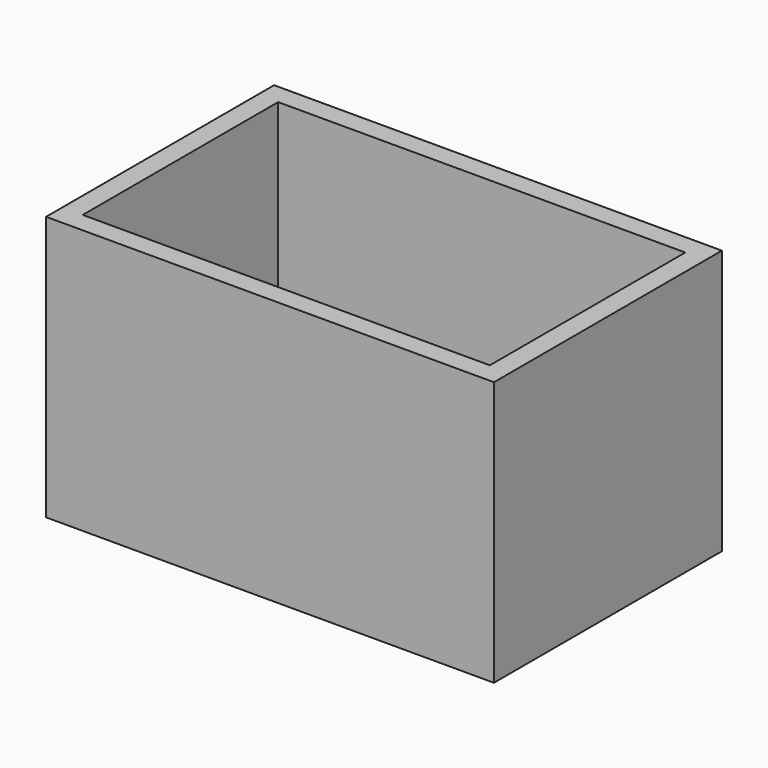
from build123d import *

# Parameters (mm, degrees)
F0_W     = 69.85
F0_H     = 44.45
F1_DEPTH = 3.175
F3_DEPTH = 3.175
F4_W     = 69.85
F4_H     = 44.45
F4_W_2   = 63.5
F4_H_2   = 38.1
F5_DEPTH = 38.1


with BuildPart() as f1:
    # F0 (on Top) → F1 (new body)
    with BuildSketch(Plane.XY):
        with Locations((34.925, -22.225)):
            Rectangle(F0_W, F0_H)
    extrude(amount=F1_DEPTH)

    # F2 (on face) → F3 (cut, through all)
    with BuildSketch(Plane.XY.offset(3.175)):
        with BuildLine():
            ThreePointArc((16.383, -22.225), (19.685, -25.527), (22.987, -22.225))
            Line((22.987, -22.225), (16.383, -22.225))
        make_face()
        with BuildLine():
            Line((16.383, -22.225), (22.987, -22.225))
            ThreePointArc((22.987, -22.225), (19.685, -18.923), (16.383, -22.225))
        make_face()
        with BuildLine():
            ThreePointArc((53.467, -22.225), (50.165, -18.923), (46.863, -22.225))
            Line((46.863, -22.225), (53.467, -22.225))
        make_face()
        with BuildLine():
            Line((53.467, -22.225), (46.863, -22.225))
            ThreePointArc((46.863, -22.225), (50.165, -25.527), (53.467, -22.225))
        make_face()
    extrude(amount=-F3_DEPTH, mode=Mode.SUBTRACT)

    # F4 (on face) → F5 (join)
    with BuildSketch(Plane.XY.offset(3.175)):
        with Locations((34.925, -22.225)):
            Rectangle(F4_W, F4_H)
        with Locations((34.925, -22.225)):
            Rectangle(F4_W_2, F4_H_2, mode=Mode.SUBTRACT)
    extrude(amount=F5_DEPTH)


solid = f1.part
